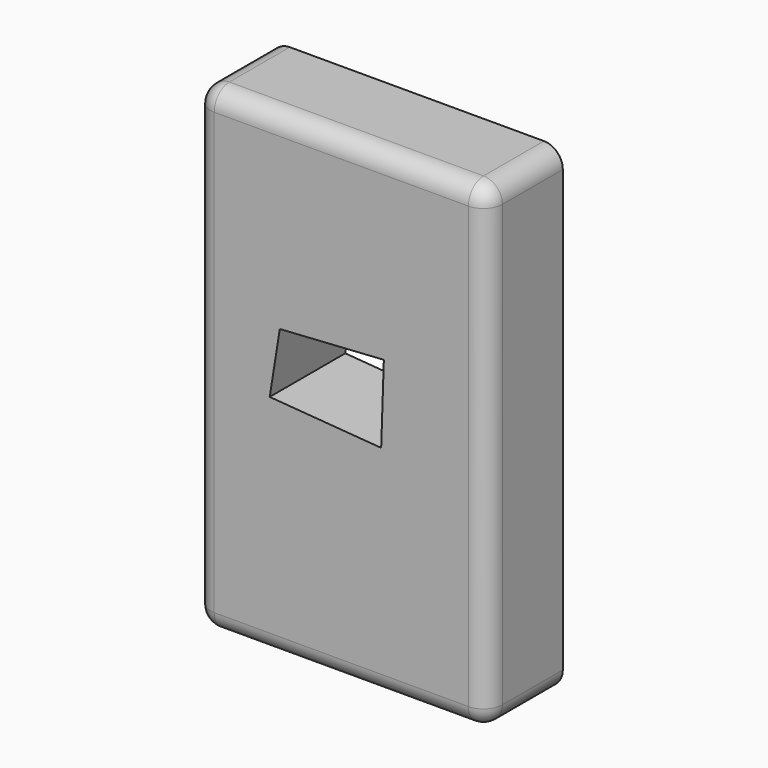
from build123d import *

# Parameters (mm, degrees)
F0_W     = 78.535166
F0_H     = 128.679674
F1_DEPTH = 25.4
F2_R     = 5.08
F3_R     = 5.08
F4_R     = 5.08
F5_R     = 5.08
F6_T     = -2819.4
F8_DEPTH = 25.4


with BuildPart() as f1:
    # F0 (on Front) → F1 (new body)
    with BuildSketch(Plane.XZ):
        with Locations((-4.977578, 3.318386)):
            Rectangle(F0_W, F0_H)
    extrude(amount=F1_DEPTH)

    # F2
    f2_edges = [f1.edges().sort_by_distance(p)[0] for p in [
        (-4.977578, -25.4, 67.658223),
    ]]
    fillet(f2_edges, radius=F2_R)

    # F3
    f3_edges = [f1.edges().sort_by_distance(p)[0] for p in [
        (-44.245161, -25.4, 0.778386),
    ]]
    fillet(f3_edges, radius=F3_R)

    # F4
    f4_edges = [f1.edges().sort_by_distance(p)[0] for p in [
        (34.290005, -25.4, 0.778386),
    ]]
    fillet(f4_edges, radius=F4_R)

    # F5
    f5_edges = [f1.edges().sort_by_distance(p)[0] for p in [
        (-4.977578, -25.4, -61.021451),
    ]]
    fillet(f5_edges, radius=F5_R)

    # F6
    f6_openings = [f1.faces().sort_by_distance(p)[0] for p in [
        (-4.977578, -25.4, 3.318386),
    ]]
    offset(amount=F6_T, openings=f6_openings)

    # F7 (on Front) → F8 (cut)
    with BuildSketch(Plane.XZ):
        Polygon((5.745283, -2.317451), (6.463282, 18.76704), (-21.526827, 16.971201), (-24.241816, 0), align=None)
    extrude(amount=F8_DEPTH, mode=Mode.SUBTRACT)


solid = f1.part
